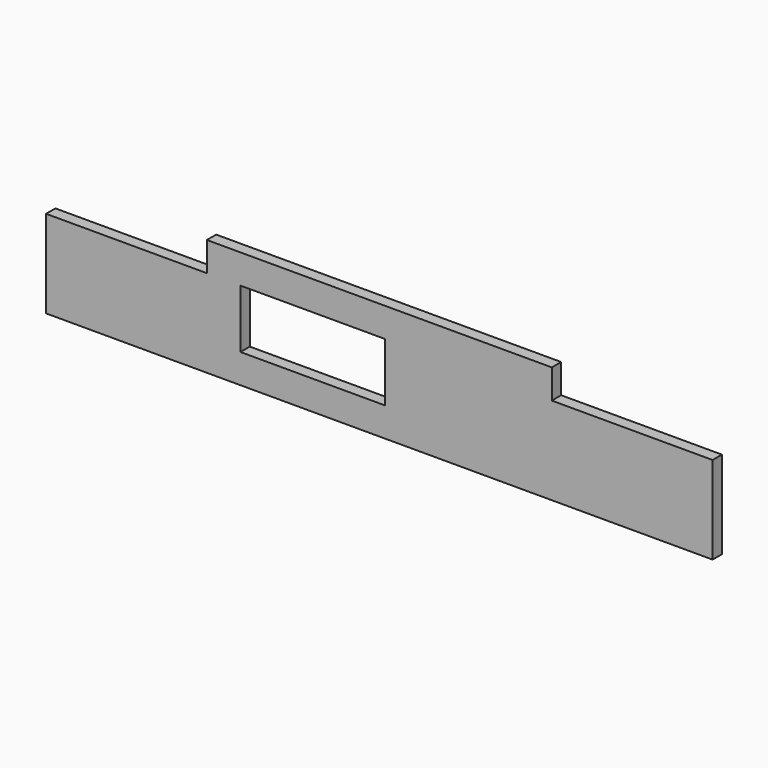
from build123d import *

# Parameters (mm, degrees)
F1_DEPTH = 8
F2_W     = 110
F2_H     = 20
F3_DEPTH = 25


with BuildPart() as f1:
    # F0 (on Front) → F1 (new body)
    with BuildSketch(Plane.XZ):
        Polygon((228, 40), (0, 40), (0, 20), (4, 20), (4, 0), (4, -20), (0, -20), (0, -40), (228, -40), align=None)
        Polygon((0, 20), (0, 40), (-228, 40), (-228, -40), (0, -40), (0, -20), (-95, -20), (-95, 20), align=None)
    extrude(amount=F1_DEPTH)

    # F2 (on face) → F3 (cut)
    with BuildSketch(Plane.XZ.offset(8)):
        with Locations((-173, 30)):
            Rectangle(F2_W, F2_H)
        with Locations((173, 30)):
            Rectangle(F2_W, F2_H)
    extrude(amount=-F3_DEPTH, mode=Mode.SUBTRACT)


solid = f1.part
